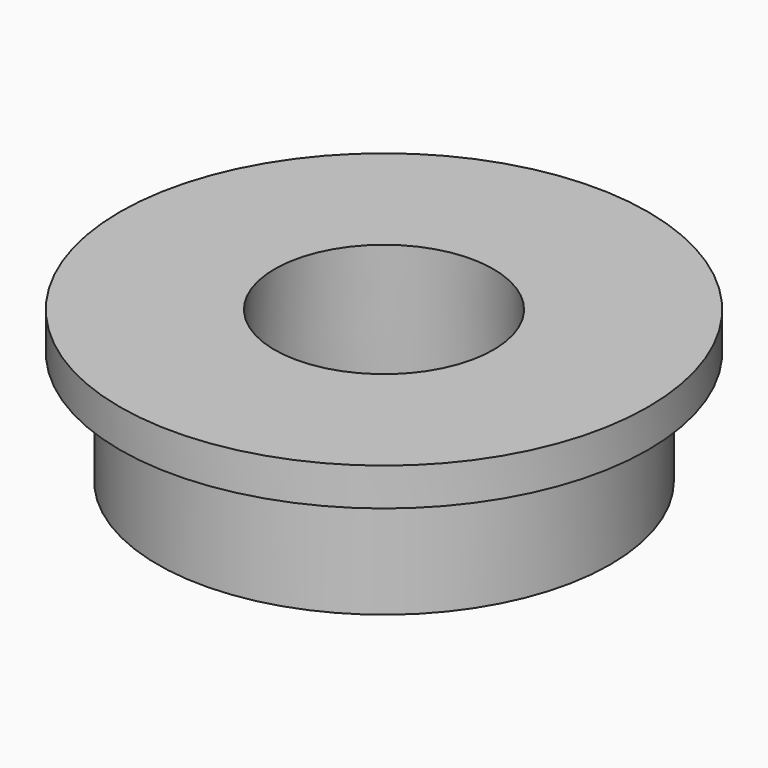
from build123d import *

# Parameters (mm, degrees)
SKETCH010_R     = 14
PAD006_DEPTH    = 8
SKETCH011_R     = 14
SKETCH011_R_2   = 12
POCKET001_DEPTH = 6


with BuildPart() as part:
    # Sketch010 → Pad006 (new body)
    with BuildSketch(Plane.XY):
        Circle(SKETCH010_R)
    extrude(amount=PAD006_DEPTH)

    # Sketch011 → Pocket001 (cut)
    with BuildSketch(Plane.XY):
        Circle(SKETCH011_R)
        Circle(SKETCH011_R_2, mode=Mode.SUBTRACT)
    extrude(amount=POCKET001_DEPTH, mode=Mode.SUBTRACT)

    # Sketch012 → Groove002 (revolve, cut)
    with BuildSketch(Plane.YZ):
        Polygon((0, 0), (-6.2, 0), (-5.8, 8), (0, 8), align=None)
    revolve(axis=Axis((0, 0, 0), (0, 0, 1)), mode=Mode.SUBTRACT)


with BuildPart() as part_1:
    # Body003 placement: moved
    add(part.part.moved(Location((0, 0, -1))))


solid = part_1.part
